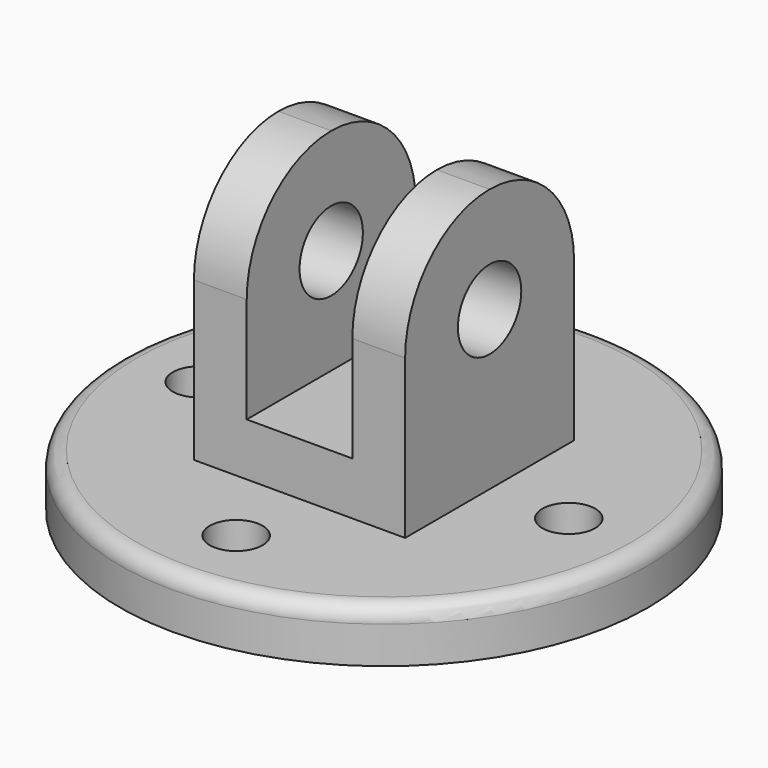
from build123d import *

# Parameters (mm, degrees)
F0_R     = 63.5
F0_R_2   = 6.35
F1_DEPTH = 12.7
F2_R     = 3.81
F4_DEPTH = 25.4
F5_R     = 9.525
F6_DEPTH = 88.901


with BuildPart() as f1:
    # F0 (on Top) → F1 (new body)
    with BuildSketch(Plane.XY):
        Circle(F0_R)
        with Locations((0, -44.45)):
            Circle(F0_R_2, mode=Mode.SUBTRACT)
        with Locations((-44.45, 0)):
            Circle(F0_R_2, mode=Mode.SUBTRACT)
        with Locations((44.45, 0)):
            Circle(F0_R_2, mode=Mode.SUBTRACT)
        with Locations((0, 44.45)):
            Circle(F0_R_2, mode=Mode.SUBTRACT)
    extrude(amount=F1_DEPTH)

    # F2
    f2_edges = [f1.edges().sort_by_distance(p)[0] for p in [
        (-63.5, 0, 12.7),
    ]]
    fillet(f2_edges, radius=F2_R)

    # F3 (on Front) → F4 (join, symmetric)
    with BuildSketch(Plane.XZ):
        Polygon((-25.4, 76.2), (-25.4, 12.7), (25.4, 12.7), (25.4, 76.2), (12.7, 76.2), (12.7, 25.4), (-12.7, 25.4), (-12.7, 76.2), align=None)
    extrude(amount=F4_DEPTH, both=True)

    # F5 (on face) → F6 (cut, through all)
    with BuildSketch(Plane.YZ.offset(25.4)):
        with Locations((0, 50.8)):
            Circle(F5_R)
        with BuildLine():
            ThreePointArc((0, 76.2), (17.960512, 68.760512), (25.4, 50.8))
            Line((25.4, 50.8), (25.4, 76.2))
            Line((25.4, 76.2), (0, 76.2))
        make_face()
        with BuildLine():
            ThreePointArc((-25.4, 50.8), (-17.960512, 68.760512), (0, 76.2))
            Line((0, 76.2), (-25.4, 76.2))
            Line((-25.4, 76.2), (-25.4, 50.8))
        make_face()
    extrude(amount=-F6_DEPTH, mode=Mode.SUBTRACT)


solid = f1.part
